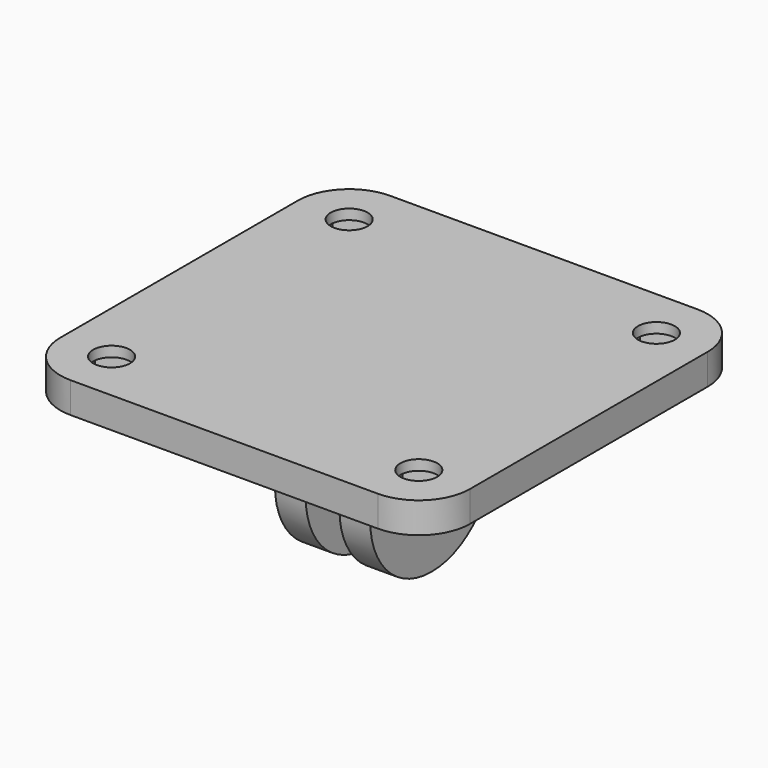
from build123d import *

# Parameters (mm, degrees)
SKETCH_R        = 1.8
PAD_DEPTH       = 3
POCKET_DEPTH    = 2
SKETCH002_W     = 9.3
SKETCH002_H     = 15
PAD001_DEPTH    = 15
SKETCH003_R     = 2.5
POCKET001_DEPTH = 10
FILLET_R        = 7.45
POCKET002_DEPTH = 15
FILLET001_R     = 7
FILLET002_R     = 2


with BuildPart() as part:
    # Sketch → Pad (new body)
    with BuildSketch(Plane(origin=(0, 0, 0), x_dir=(1, 0, 0), z_dir=(0, 0, -1))):
        with BuildLine():
            ThreePointArc((0, 5), (-3.535534, 3.535534), (-5, 0))
            Line((-5, 0), (-5, -29))
            ThreePointArc((-5, -29), (-3.535534, -32.535534), (0, -34))
            Line((0, -34), (30, -34))
            ThreePointArc((30, -34), (33.535534, -32.535534), (35, -29))
            Line((35, 0), (35, -29))
            ThreePointArc((35, 0), (33.535534, 3.535534), (30, 5))
            Line((0, 5), (30, 5))
        make_face()
        Circle(SKETCH_R, mode=Mode.SUBTRACT)
        with Locations((30, 0)):
            Circle(SKETCH_R, mode=Mode.SUBTRACT)
        with Locations((30, -29)):
            Circle(SKETCH_R, mode=Mode.SUBTRACT)
        with Locations((0, -29)):
            Circle(SKETCH_R, mode=Mode.SUBTRACT)
    extrude(amount=PAD_DEPTH)

    # Sketch001 → Pocket (cut)
    with BuildSketch(Plane(origin=(0, 0, -3), x_dir=(1, 0, 0), z_dir=(0, 0, -1))):
        Polygon((-3, -30.732051), (-3, -27.267949), (0, -25.535898), (3, -27.267949), (3, -30.732051), (0, -32.464102), align=None)
        Polygon((27, -30.732051), (27, -27.267949), (30, -25.535898), (33, -27.267949), (33, -30.732051), (30, -32.464102), align=None)
        Polygon((-3, 1.732051), (-3, -1.732051), (0, -3.464102), (3, -1.732051), (3, 1.732051), (0, 3.464102), align=None)
        Polygon((27, -1.732051), (27, 1.732051), (30, 3.464102), (33, 1.732051), (33, -1.732051), (30, -3.464102), align=None)
    extrude(amount=-POCKET_DEPTH, mode=Mode.SUBTRACT)

    # Sketch002 → Pad001 (new body)
    with BuildSketch(Plane(origin=(0, 0, -3), x_dir=(1, 0, 0), z_dir=(0, 0, -1))):
        with Locations((15, -14.5)):
            Rectangle(SKETCH002_W, SKETCH002_H)
    extrude(amount=PAD001_DEPTH)

    # Sketch003 → Pocket001 (cut)
    with BuildSketch(Plane(origin=(19.65, 0, 0), x_dir=(0, -1, 0), z_dir=(1, 0, 0))):
        with Locations((-14.5, 10.5)):
            Circle(SKETCH003_R)
    extrude(amount=-POCKET001_DEPTH, mode=Mode.SUBTRACT)

    # Fillet
    fillet_edges = [part.edges().sort_by_distance(p)[0] for p in [
        (15, 22, -18),
        (15, 7, -18),
    ]]
    fillet(fillet_edges, radius=FILLET_R)

    # Sketch004 → Pocket002 (cut)
    with BuildSketch(Plane(origin=(0, 22, 0), x_dir=(1, 0, 0), z_dir=(0, 1, 0))):
        Polygon((13.35, 18), (13.35, 3), (16.65, 3), (16.65, 18), (15, 18), align=None)
    extrude(amount=-POCKET002_DEPTH, mode=Mode.SUBTRACT)

    # Fillet001
    fillet001_edges = [part.edges().sort_by_distance(p)[0] for p in [
        (18.15, 22, -3),
        (11.85, 22, -3),
    ]]
    fillet(fillet001_edges, radius=FILLET001_R)

    # Fillet002
    fillet002_edges = [part.edges().sort_by_distance(p)[0] for p in [
        (18.15, 7, -3),
        (11.85, 7, -3),
    ]]
    fillet(fillet002_edges, radius=FILLET002_R)


solid = part.part
